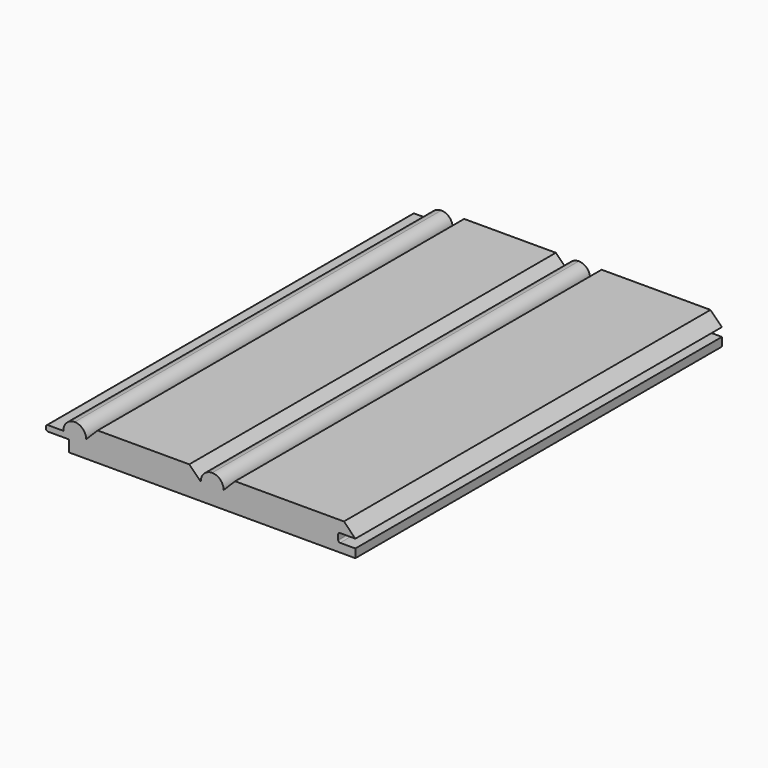
from build123d import *

# Parameters (mm, degrees)
F1_DEPTH = 127


with BuildPart() as f1:
    # F0 (on Front) → F1 (new body)
    with BuildSketch(Plane.XZ):
        with BuildLine():
            Line((-36.5125, -0.79375), (-36.5125, -3.96875))
            Line((-36.5125, -3.96875), (42.8625, -3.96875))
            Line((42.8625, -3.96875), (42.8625, -1.5875))
            Line((42.8625, -1.5875), (38.608, -1.5875))
            ThreePointArc((38.608, -1.5875), (38.24879, -1.43871), (38.1, -1.0795))
            Line((38.1, -1.0795), (38.1, 0.28575))
            ThreePointArc((38.1, 0.28575), (38.24879, 0.64496), (38.608, 0.79375))
            Line((38.608, 0.79375), (42.8625, 0.79375))
            Line((42.8625, 0.79375), (39.6875, 3.96875))
            Line((39.6875, 3.96875), (9.525, 3.96875))
            Line((9.525, 3.96875), (6.35, 0.79375))
            ThreePointArc((6.35, 0.79375), (5.420064, 3.038814), (3.175, 3.96875))
            ThreePointArc((3.175, 3.96875), (0.929936, 3.038814), (0, 0.79375))
            Line((0, 0.79375), (-3.175, 3.96875))
            Line((-3.175, 3.96875), (-28.575, 3.96875))
            Line((-28.575, 3.96875), (-31.75, 0.79375))
            ThreePointArc((-31.75, 0.79375), (-32.679936, 3.038814), (-34.925, 3.96875))
            ThreePointArc((-34.925, 3.96875), (-37.170064, 3.038814), (-38.1, 0.79375))
            Line((-38.1, 0.79375), (-42.3545, 0.79375))
            ThreePointArc((-42.3545, 0.79375), (-42.71371, 0.64496), (-42.8625, 0.28575))
            Line((-42.8625, 0.28575), (-42.8625, -0.28575))
            ThreePointArc((-42.8625, -0.28575), (-42.71371, -0.64496), (-42.3545, -0.79375))
            Line((-42.3545, -0.79375), (-36.5125, -0.79375))
        make_face()
    extrude(amount=F1_DEPTH)


solid = f1.part
